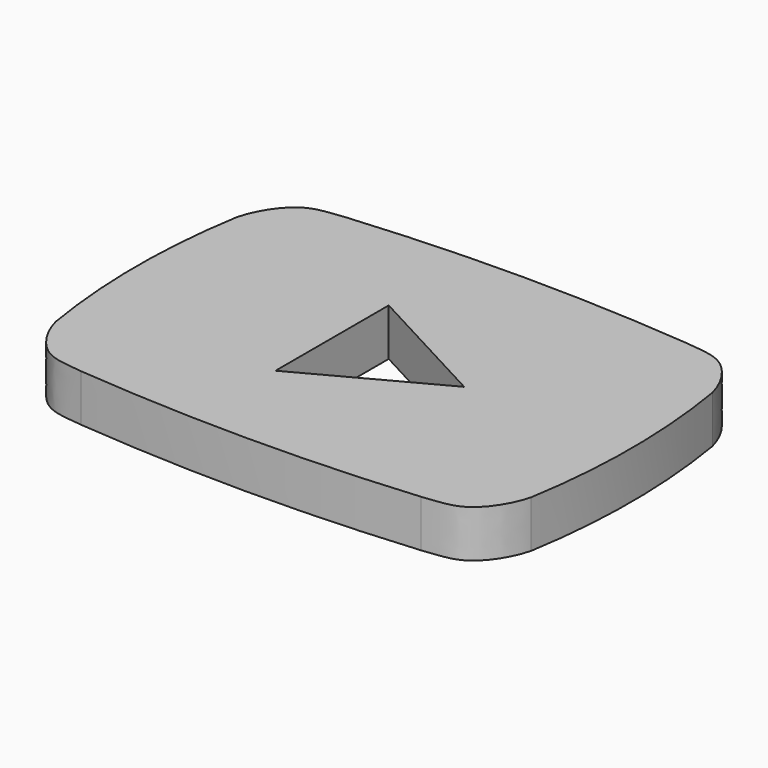
from build123d import *

# Parameters (mm, degrees)
F1_DEPTH = 5


with BuildPart() as f1:
    # F0 (on Top) → F1 (new body)
    with BuildSketch(Plane.XY):
        with BuildLine():
            add(Edge.make_bspline(
                [(-25.2, 12), (-24.770263451, 13.7320665567), (-22.5559362307, 17.3933294028), (-19.7388011355, 17.4001357259), (-18, 17.6210526316)],
                knots=[0, 0, 0, 0, 0.5263054949, 1, 1, 1, 1], degree=3))
            ThreePointArc((-25.2, 12), (-26.1941368445, 0), (-25.2, -12))
            add(Edge.make_bspline(
                [(-25.2, -12), (-24.770263451, -13.7320665567), (-22.5559362307, -17.3933294028), (-19.7388011355, -17.4001357259), (-18, -17.6210526316)],
                knots=[0, 0, 0, 0, 0.5263054949, 1, 1, 1, 1], degree=3))
            ThreePointArc((-18, -17.6210526316), (0, -18.4210526316), (18, -17.6210526316))
            add(Edge.make_bspline(
                [(25.2, -12), (24.770263451, -13.7320665567), (22.5559362307, -17.3933294028), (19.7388011355, -17.4001357259), (18, -17.6210526316)],
                knots=[0, 0, 0, 0, 0.5263054949, 1, 1, 1, 1], degree=3))
            ThreePointArc((25.2, -12), (26.1941368445, 0), (25.2, 12))
            add(Edge.make_bspline(
                [(25.2, 12), (24.770263451, 13.7320665567), (22.5559362307, 17.3933294028), (19.7388011355, 17.4001357259), (18, 17.6210526316)],
                knots=[0, 0, 0, 0, 0.5263054949, 1, 1, 1, 1], degree=3))
            ThreePointArc((18, 17.6210526316), (0, 18.4210526316), (-18, 17.6210526316))
        make_face()
        Polygon((-5.5, -7.5), (-5.5, 7.5), (8.5, 0), align=None, mode=Mode.SUBTRACT)
    extrude(amount=F1_DEPTH)


solid = f1.part
